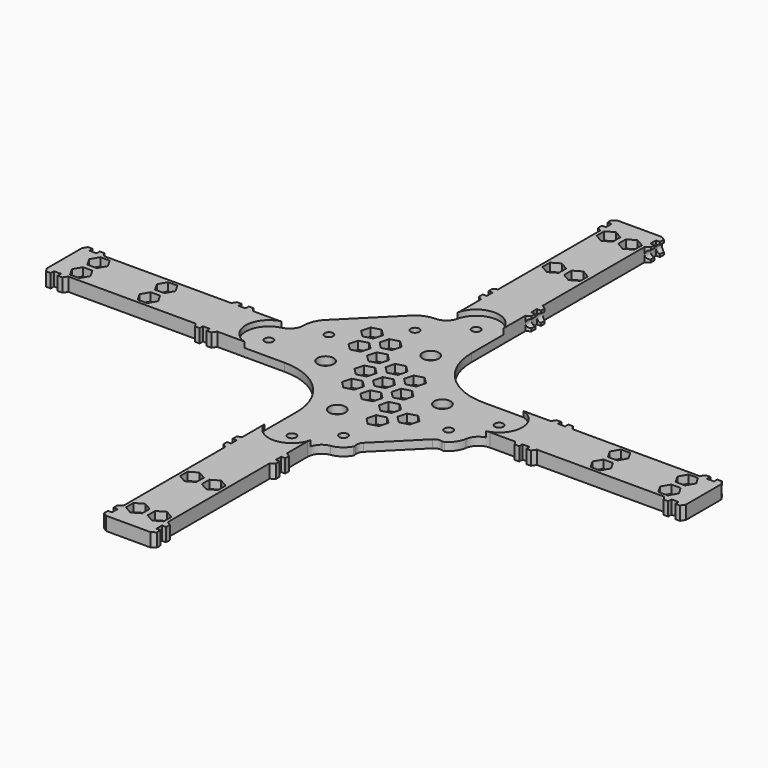
from build123d import *

# Parameters (mm, degrees)
SKETCH_R        = 1.575
PAD_DEPTH       = 5
POCKET_DEPTH    = 2.05
SKETCH002_R     = 1.575
HOLE_DEPTH      = 25
SKETCH003_R     = 3
POCKET001_DEPTH = 3
POCKET002_DEPTH = 65
POCKET003_DEPTH = 65
SKETCH006_R     = 1.575
HOLE001_DEPTH   = 25
POCKET004_DEPTH = 3
POCKET005_DEPTH = 5
FILLET_R        = 1
FILLET001_R     = 1


with BuildPart() as part:
    # Sketch → Pad (new body)
    with BuildSketch(Plane.XY):
        with BuildLine():
            Line((-8.2, 45.62), (-8.2, 55))
            Line((-8.2, 55), (-9.7, 56))
            Line((-9.7, 56), (-9.7, 57.7))
            Line((-9.7, 57.7), (-8.2, 57.7))
            Line((-8.2, 57.7), (-8.2, 60.3))
            Line((-9.7, 60.3), (-8.2, 60.3))
            Line((-9.7, 60.3), (-9.7, 62))
            Line((-9.7, 62), (-8.2, 63))
            Line((-8.2, 110), (-8.2, 63))
            Line((-9.7, 111), (-8.2, 110))
            Line((-9.7, 112.7), (-9.7, 111))
            Line((-8.2, 112.7), (-9.7, 112.7))
            Line((-8.2, 115.3), (-8.2, 112.7))
            Line((-9.7, 115.3), (-8.2, 115.3))
            Line((-9.7, 117), (-9.7, 115.3))
            Line((-8.2, 118), (-9.7, 117))
            Line((8.2, 118), (-8.2, 118))
            Line((9.7, 117), (8.2, 118))
            Line((9.7, 115.3), (9.7, 117))
            Line((8.2, 115.3), (9.7, 115.3))
            Line((8.2, 112.7), (8.2, 115.3))
            Line((9.7, 112.7), (8.2, 112.7))
            Line((9.7, 111), (9.7, 112.7))
            Line((8.2, 110), (9.7, 111))
            Line((8.2, 63), (8.2, 110))
            Line((9.7, 62), (8.2, 63))
            Line((9.7, 60.3), (9.7, 62))
            Line((9.7, 60.3), (8.2, 60.3))
            Line((8.2, 57.7), (8.2, 60.3))
            Line((9.7, 57.7), (8.2, 57.7))
            Line((9.7, 56), (9.7, 57.7))
            Line((8.2, 55), (9.7, 56))
            Line((8.2, 55), (8.2, 30.093172055))
            ThreePointArc((8.2, 30.093172055), (14.6123616332, 14.6123616332), (30.093172055, 8.2))
            Line((30.093172055, 8.2), (55, 8.2))
            Line((55, 8.2), (56, 9.7))
            Line((56, 9.7), (57.7, 9.7))
            Line((57.7, 9.7), (57.7, 8.2))
            Line((57.7, 8.2), (60.3, 8.2))
            Line((60.3, 9.7), (60.3, 8.2))
            Line((60.3, 9.7), (62, 9.7))
            Line((62, 9.7), (63, 8.2))
            Line((63, 8.2), (110, 8.2))
            Line((110, 8.2), (111, 9.7))
            Line((111, 9.7), (112.7, 9.7))
            Line((112.7, 9.7), (112.7, 8.2))
            Line((112.7, 8.2), (115.3, 8.2))
            Line((115.3, 8.2), (115.3, 9.7))
            Line((115.3, 9.7), (117, 9.7))
            Line((117, 9.7), (118, 8.2))
            Line((118, 8.2), (118, -8.2))
            Line((118, -8.2), (117, -9.7))
            Line((117, -9.7), (115.3, -9.7))
            Line((115.3, -9.7), (115.3, -8.2))
            Line((115.3, -8.2), (112.7, -8.2))
            Line((112.7, -8.2), (112.7, -9.7))
            Line((112.7, -9.7), (111, -9.7))
            Line((111, -9.7), (110, -8.2))
            Line((110, -8.2), (63, -8.2))
            Line((62, -9.7), (63, -8.2))
            Line((60.3, -9.7), (62, -9.7))
            Line((60.3, -9.7), (60.3, -8.2))
            Line((57.7, -8.2), (60.3, -8.2))
            Line((57.7, -9.7), (57.7, -8.2))
            Line((56, -9.7), (57.7, -9.7))
            Line((55, -8.2), (56, -9.7))
            Line((55, -8.2), (45.62, -8.2))
            ThreePointArc((45.62, -8.2), (42.2057126445, -9.4618748949), (40.4327218596, -12.6408983414))
            ThreePointArc((36.278664512, -18.2242501439), (39.046151695, -15.946280766), (40.4327218596, -12.6408983414))
            ThreePointArc((36.278664512, -18.2242501439), (34.5512595991, -18.0600514685), (33.0218866814, -18.8797510577))
            Line((18.8797510577, -33.0218866814), (33.0218866814, -18.8797510577))
            ThreePointArc((18.8797510577, -33.0218866814), (18.0600514685, -34.5512595991), (18.2242501439, -36.278664512))
            ThreePointArc((12.6408983414, -40.4327218596), (15.946280766, -39.046151695), (18.2242501439, -36.278664512))
            ThreePointArc((12.6408983414, -40.4327218596), (9.4618748949, -42.2057126445), (8.2, -45.62))
            Line((8.2, -45.62), (8.2, -55))
            Line((8.2, -55), (9.7, -56))
            Line((9.7, -56), (9.7, -57.7))
            Line((9.7, -57.7), (8.2, -57.7))
            Line((8.2, -57.7), (8.2, -60.3))
            Line((9.7, -60.3), (8.2, -60.3))
            Line((9.7, -60.3), (9.7, -62))
            Line((9.7, -62), (8.2, -63))
            Line((8.2, -63), (8.2, -110))
            Line((8.2, -110), (9.7, -111))
            Line((9.7, -111), (9.7, -112.7))
            Line((9.7, -112.7), (8.2, -112.7))
            Line((8.2, -112.7), (8.2, -115.3))
            Line((8.2, -115.3), (9.7, -115.3))
            Line((9.7, -115.3), (9.7, -117))
            Line((9.7, -117), (8.2, -118))
            Line((8.2, -118), (-8.2, -118))
            Line((-8.2, -118), (-9.7, -117))
            Line((-9.7, -117), (-9.7, -115.3))
            Line((-9.7, -115.3), (-8.2, -115.3))
            Line((-8.2, -115.3), (-8.2, -112.7))
            Line((-8.2, -112.7), (-9.7, -112.7))
            Line((-9.7, -112.7), (-9.7, -111))
            Line((-9.7, -111), (-8.2, -110))
            Line((-8.2, -110), (-8.2, -63))
            Line((-9.7, -62), (-8.2, -63))
            Line((-9.7, -60.3), (-9.7, -62))
            Line((-9.7, -60.3), (-8.2, -60.3))
            Line((-8.2, -57.7), (-8.2, -60.3))
            Line((-9.7, -57.7), (-8.2, -57.7))
            Line((-9.7, -56), (-9.7, -57.7))
            Line((-8.2, -55), (-9.7, -56))
            Line((-8.2, -30.093172055), (-8.2, -55))
            ThreePointArc((-8.2, -30.093172055), (-14.6123616332, -14.6123616332), (-30.093172055, -8.2))
            Line((-30.093172055, -8.2), (-55, -8.2))
            Line((-55, -8.2), (-56, -9.7))
            Line((-56, -9.7), (-57.7, -9.7))
            Line((-57.7, -9.7), (-57.7, -8.2))
            Line((-57.7, -8.2), (-60.3, -8.2))
            Line((-60.3, -9.7), (-60.3, -8.2))
            Line((-60.3, -9.7), (-62, -9.7))
            Line((-62, -9.7), (-63, -8.2))
            Line((-110, -8.2), (-63, -8.2))
            Line((-111, -9.7), (-110, -8.2))
            Line((-112.7, -9.7), (-111, -9.7))
            Line((-112.7, -8.2), (-112.7, -9.7))
            Line((-115.3, -8.2), (-112.7, -8.2))
            Line((-115.3, -9.7), (-115.3, -8.2))
            Line((-117, -9.7), (-115.3, -9.7))
            Line((-118, -8.2), (-117, -9.7))
            Line((-118, 8.2), (-118, -8.2))
            Line((-117, 9.7), (-118, 8.2))
            Line((-115.3, 9.7), (-117, 9.7))
            Line((-115.3, 8.2), (-115.3, 9.7))
            Line((-112.7, 8.2), (-115.3, 8.2))
            Line((-112.7, 9.7), (-112.7, 8.2))
            Line((-111, 9.7), (-112.7, 9.7))
            Line((-110, 8.2), (-111, 9.7))
            Line((-63, 8.2), (-110, 8.2))
            Line((-62, 9.7), (-63, 8.2))
            Line((-60.3, 9.7), (-62, 9.7))
            Line((-60.3, 9.7), (-60.3, 8.2))
            Line((-57.7, 8.2), (-60.3, 8.2))
            Line((-57.7, 9.7), (-57.7, 8.2))
            Line((-56, 9.7), (-57.7, 9.7))
            Line((-55, 8.2), (-56, 9.7))
            Line((-45.62, 8.2), (-55, 8.2))
            ThreePointArc((-45.62, 8.2), (-41.9096053961, 9.7357743898), (-40.3700027955, 13.4445821396))
            ThreePointArc((-37.6586045911, 19.9809350614), (-39.6635079263, 16.9820603369), (-40.3700027955, 13.4445821396))
            Line((-19.9809350614, 37.6586045911), (-37.6586045911, 19.9809350614))
            ThreePointArc((-13.4445821396, 40.3700027955), (-16.9820603369, 39.6635079263), (-19.9809350614, 37.6586045911))
            ThreePointArc((-13.4445821396, 40.3700027955), (-9.7357743898, 41.9096053961), (-8.2, 45.62))
        make_face()
        with Locations((11.4904851943, -33.0572420205)):
            Circle(SKETCH_R, mode=Mode.SUBTRACT)
        with Locations((33.0572420205, -11.4904851943)):
            Circle(SKETCH_R, mode=Mode.SUBTRACT)
        with Locations((-31.1126983722, 13.4350288425)):
            Circle(SKETCH_R, mode=Mode.SUBTRACT)
        with Locations((-13.4350288425, 31.1126983722)):
            Circle(SKETCH_R, mode=Mode.SUBTRACT)
    extrude(amount=PAD_DEPTH)

    # Sketch001 (on Face152 of Pad) → Pocket (cut)
    with BuildSketch(Plane.XY.offset(5)):
        with BuildLine():
            ThreePointArc((8.5428332537, 42.85), (0.797180529, 51.0127553239), (-8.3293217011, 44.43))
            Line((-27.86, 43.5), (-8.3293217011, 44.43))
            Line((-45.37, 28.94), (-27.86, 43.5))
            Line((-44.43, 8.3293217011), (-45.37, 28.94))
            ThreePointArc((-44.43, 8.3293217011), (-50.9686788905, -1.1764258795), (-42.0865994678, -8.54))
            Line((-8.5454139748, -42.78), (-42.0865994678, -8.54))
            ThreePointArc((-8.5454139748, -42.78), (-0.8116215121, -51.0113906338), (8.3384890718, -44.39))
            Line((20.64, -43.36), (8.3384890718, -44.39))
            Line((44.39, -21.33), (20.64, -43.36))
            Line((44.39, -8.3384890718), (44.39, -21.33))
            ThreePointArc((44.39, -8.3384890718), (51.0174680416, 0.7451430471), (42.9134005322, 8.54))
            Line((8.5428332537, 42.85), (42.9134005322, 8.54))
        make_face()
    extrude(amount=-POCKET_DEPTH, mode=Mode.SUBTRACT)

    # Sketch002 (on Face6 of Pocket) → Hole (cut)
    with BuildSketch(Plane.XY.offset(2.95)):
        with Locations((0, 42.5)):
            Circle(SKETCH002_R)
        with Locations((42.5, 0)):
            Circle(SKETCH002_R)
        with Locations((0, -42.5)):
            Circle(SKETCH002_R)
        with Locations((-42.5, 0)):
            Circle(SKETCH002_R)
    extrude(amount=-HOLE_DEPTH, mode=Mode.SUBTRACT)

    # Sketch003 (on Face6 of Hole) → Pocket001 (cut)
    with BuildSketch(Plane.XY.offset(2.95)):
        with Locations((0, 21.567)):
            Circle(SKETCH003_R)
        with Locations((21.5665136497, 0)):
            Circle(SKETCH003_R)
        with Locations((0, -21.567)):
            Circle(SKETCH003_R)
        with Locations((-21.5665136497, 0)):
            Circle(SKETCH003_R)
    extrude(amount=-POCKET001_DEPTH, mode=Mode.SUBTRACT)

    # Sketch004 (on Face107 of Pocket001) → Pocket002 (cut)
    with BuildSketch(Plane.YZ.offset(118)):
        with BuildLine():
            Line((13.62, 4), (13.62, 1))
            Line((13.62, 1), (9.7, 1))
            ThreePointArc((9.7, 4), (8.2, 2.5), (9.7, 1))
            Line((13.62, 4), (9.7, 4))
        make_face()
    extrude(amount=-POCKET002_DEPTH, mode=Mode.SUBTRACT)

    # Sketch005 (on Face39 of Pocket002) → Pocket003 (cut)
    with BuildSketch(Plane(origin=(0, 118, 0), x_dir=(-1, 0, 0), z_dir=(0, 1, 0))):
        with BuildLine():
            Line((-9.7, 4), (-13.44, 4))
            Line((-13.44, 4), (-13.44, 1))
            Line((-13.44, 1), (-9.7, 1))
            ThreePointArc((-9.7, 1), (-8.2, 2.5), (-9.7, 4))
        make_face()
    extrude(amount=-POCKET003_DEPTH, mode=Mode.SUBTRACT)

    # Sketch006 (on Face4 of Pocket003) → Hole001 (cut)
    with BuildSketch(Plane.XY.offset(5)):
        with Locations((-108.6, 4)):
            Circle(SKETCH006_R)
        with Locations((-83.6, 4)):
            Circle(SKETCH006_R)
        with Locations((-108.6, -4)):
            Circle(SKETCH006_R)
        with Locations((-83.6, -4)):
            Circle(SKETCH006_R)
        with Locations((-4, 108.6)):
            Circle(SKETCH006_R)
        with Locations((-4, 83.6)):
            Circle(SKETCH006_R)
        with Locations((4, 108.6)):
            Circle(SKETCH006_R)
        with Locations((4, 83.6)):
            Circle(SKETCH006_R)
        with Locations((4, -108.6)):
            Circle(SKETCH006_R)
        with Locations((4, -83.6)):
            Circle(SKETCH006_R)
        with Locations((-4, -108.6)):
            Circle(SKETCH006_R)
        with Locations((-4, -83.6)):
            Circle(SKETCH006_R)
        with Locations((108.6, 4)):
            Circle(SKETCH006_R)
        with Locations((83.6, 4)):
            Circle(SKETCH006_R)
        with Locations((108.6, -4)):
            Circle(SKETCH006_R)
        with Locations((83.6, -4)):
            Circle(SKETCH006_R)
    extrude(amount=-HOLE001_DEPTH, mode=Mode.SUBTRACT)

    # Sketch007 (on Face4 of Hole001) → Pocket004 (cut)
    with BuildSketch(Plane.XY.offset(5)):
        Polygon((-106.8679491924, 1), (-105.1358983849, 4), (-106.8679491924, 7), (-110.3320508076, 7), (-112.0641016151, 4), (-110.3320508076, 1), align=None)
        Polygon((-81.8679491924, 1), (-80.1358983849, 4), (-81.8679491924, 7), (-85.3320508076, 7), (-87.0641016151, 4), (-85.3320508076, 1), align=None)
        Polygon((-106.8679491924, -7), (-105.1358983849, -4), (-106.8679491924, -1), (-110.3320508076, -1), (-112.0641016151, -4), (-110.3320508076, -7), align=None)
        Polygon((-81.8679491924, -7), (-80.1358983849, -4), (-81.8679491924, -1), (-85.3320508076, -1), (-87.0641016151, -4), (-85.3320508076, -7), align=None)
        Polygon((106.8679491924, 1), (105.1358983849, 4), (106.8679491924, 7), (110.3320508076, 7), (112.0641016151, 4), (110.3320508076, 1), align=None)
        Polygon((81.8679491924, 1), (80.1358983849, 4), (81.8679491924, 7), (85.3320508076, 7), (87.0641016151, 4), (85.3320508076, 1), align=None)
        Polygon((106.8679491924, -7), (105.1358983849, -4), (106.8679491924, -1), (110.3320508076, -1), (112.0641016151, -4), (110.3320508076, -7), align=None)
        Polygon((81.8679491924, -7), (80.1358983849, -4), (81.8679491924, -1), (85.3320508076, -1), (87.0641016151, -4), (85.3320508076, -7), align=None)
        Polygon((-1, 106.8679491924), (-4, 105.1358983849), (-7, 106.8679491924), (-7, 110.3320508076), (-4, 112.0641016151), (-1, 110.3320508076), align=None)
        Polygon((-1, 81.8679491924), (-4, 80.1358983849), (-7, 81.8679491924), (-7, 85.3320508076), (-4, 87.0641016151), (-1, 85.3320508076), align=None)
        Polygon((7, 106.8679491924), (4, 105.1358983849), (1, 106.8679491924), (1, 110.3320508076), (4, 112.0641016151), (7, 110.3320508076), align=None)
        Polygon((7, 81.8679491924), (4, 80.1358983849), (1, 81.8679491924), (1, 85.3320508076), (4, 87.0641016151), (7, 85.3320508076), align=None)
        Polygon((1, -106.8679491924), (4, -105.1358983849), (7, -106.8679491924), (7, -110.3320508076), (4, -112.0641016151), (1, -110.3320508076), align=None)
        Polygon((1, -81.8679491924), (4, -80.1358983849), (7, -81.8679491924), (7, -85.3320508076), (4, -87.0641016151), (1, -85.3320508076), align=None)
        Polygon((-7, -106.8679491924), (-4, -105.1358983849), (-1, -106.8679491924), (-1, -110.3320508076), (-4, -112.0641016151), (-7, -110.3320508076), align=None)
        Polygon((-7, -81.8679491924), (-4, -80.1358983849), (-1, -81.8679491924), (-1, -85.3320508076), (-4, -87.0641016151), (-7, -85.3320508076), align=None)
    extrude(amount=-POCKET004_DEPTH, mode=Mode.SUBTRACT)

    # Sketch008 (on Face6 of Pocket004) → Pocket005 (cut)
    with BuildSketch(Plane.XY.offset(2.95)):
        Polygon((-18.6993424701, 22.9419831572), (-21.1488322129, 25.3914729), (-24.4948974278, 24.4948974278), (-25.3914729, 21.1488322129), (-22.9419831572, 18.6993424701), (-19.5959179423, 19.5959179423), align=None)
        Polygon((-16.3699710642, 14.2486507206), (-18.819460807, 16.6981404634), (-22.1655260219, 15.8015649912), (-23.0621014941, 12.4554997763), (-20.6126117513, 10.0060100335), (-17.2665465363, 10.9025855057), align=None)
        Polygon((-10.0060100335, 20.6126117513), (-12.4554997763, 23.0621014941), (-15.8015649912, 22.1655260219), (-16.6981404634, 18.819460807), (-14.2486507206, 16.3699710642), (-10.9025855057, 17.2665465363), align=None)
        Polygon((-7.6766386276, 11.9192793147), (-10.1261283704, 14.3687690575), (-13.4721935853, 13.4721935853), (-14.3687690575, 10.1261283704), (-11.9192793147, 7.6766386276), (-8.5732140997, 8.5732140997), align=None)
        Polygon((1.016693809, 9.5899079088), (-1.4327959338, 12.0393976516), (-4.7788611487, 11.1428221794), (-5.6754366209, 7.7967569644), (-3.2259468781, 5.3472672217), (0.1201183369, 6.2438426938), align=None)
        Polygon((9.7100262456, 7.2605365028), (7.2605365028, 9.7100262456), (3.9144712879, 8.8134507735), (3.0178958157, 5.4673855585), (5.4673855585, 3.0178958157), (8.8134507735, 3.9144712879), align=None)
        Polygon((-5.3472672217, 3.2259468781), (-7.7967569644, 5.6754366209), (-11.1428221794, 4.7788611487), (-12.0393976516, 1.4327959338), (-9.5899079088, -1.016693809), (-6.2438426938, -0.1201183369), align=None)
        Polygon((-3.0178958157, -5.4673855585), (-5.4673855585, -3.0178958157), (-8.8134507735, -3.9144712879), (-9.7100262456, -7.2605365028), (-7.2605365028, -9.7100262456), (-3.9144712879, -8.8134507735), align=None)
        Polygon((3.346065215, 0.8965754722), (0.8965754722, 3.346065215), (-2.4494897428, 2.4494897428), (-3.346065215, -0.8965754722), (-0.8965754722, -3.346065215), (2.4494897428, -2.4494897428), align=None)
        Polygon((5.6754366209, -7.7967569644), (3.2259468781, -5.3472672217), (-0.1201183369, -6.2438426938), (-1.016693809, -9.5899079088), (1.4327959338, -12.0393976516), (4.7788611487, -11.1428221794), align=None)
        Polygon((12.0393976516, -1.4327959338), (9.5899079088, 1.016693809), (6.2438426938, 0.1201183369), (5.3472672217, -3.2259468781), (7.7967569644, -5.6754366209), (11.1428221794, -4.7788611487), align=None)
        Polygon((16.3699710642, -14.2486507206), (18.819460807, -16.6981404634), (22.1655260219, -15.8015649912), (23.0621014941, -12.4554997763), (20.6126117513, -10.0060100335), (17.2665465363, -10.9025855057), align=None)
        Polygon((10.0060100335, -20.6126117513), (12.4554997763, -23.0621014941), (15.8015649912, -22.1655260219), (16.6981404634, -18.819460807), (14.2486507206, -16.3699710642), (10.9025855057, -17.2665465363), align=None)
        Polygon((7.6766386276, -11.9192793147), (10.1261283704, -14.3687690575), (13.4721935853, -13.4721935853), (14.3687690575, -10.1261283704), (11.9192793147, -7.6766386276), (8.5732140997, -8.5732140997), align=None)
    extrude(amount=-POCKET005_DEPTH, mode=Mode.SUBTRACT)

    # Fillet
    fillet_edges = [part.edges().sort_by_distance(p)[0] for p in [
        (36.278665, -18.22425, 1.475),
    ]]
    fillet(fillet_edges, radius=FILLET_R)

    # Fillet001
    fillet001_edges = [part.edges().sort_by_distance(p)[0] for p in [
        (18.22425, -36.278665, 1.475),
    ]]
    fillet(fillet001_edges, radius=FILLET001_R)


solid = part.part
